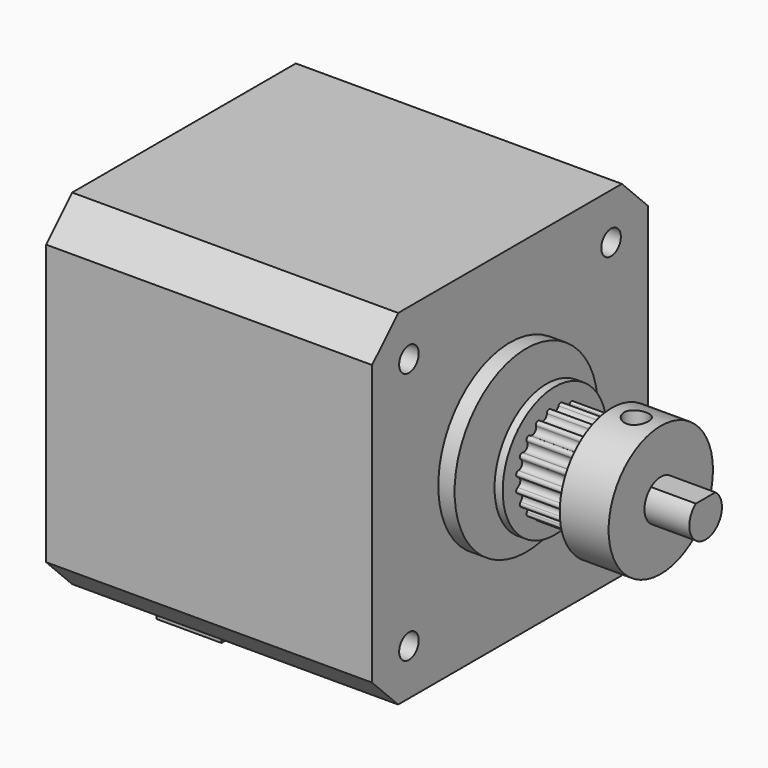
from build123d import *

# Parameters (mm, degrees)
F0_R           = 1.5
F0_R_2         = 11
F1_DEPTH       = 40
F2_DEPTH       = 24
F3_DEPTH       = 4
F4_DEPTH       = 2
F5_DEPTH       = 4.5
F6_W           = 16
F6_H           = 4
F6_H_2         = 2.5
F7_DEPTH       = 11
F8_DEPTH       = 3
F10_R          = 8
F10_R_2        = 2.5
F11_DEPTH      = 4.5
F11_DEPTH_BACK = 9.5
F12_R          = 8
F13_DEPTH      = 3.5
F14_R          = 1.5
F15_DEPTH      = 25


with BuildPart() as f1:
    # F0 (on Right) → F1 (new body)
    with BuildSketch(Plane.YZ):
        Polygon((-17.15, 21.15), (-19.15, 19.15), (-21.15, 17.15), (-21.15, 0), (-21.15, -17.15), (-19.15, -19.15), (-17.15, -21.15), (0, -21.15), (17.15, -21.15), (19.15, -19.15), (21.15, -17.15), (21.15, 0), (21.15, 17.15), (19.15, 19.15), (17.15, 21.15), (0, 21.15), align=None)
        with Locations((-15.5, -15.5)):
            Circle(F0_R, mode=Mode.SUBTRACT)
        with Locations((15.5, -15.5)):
            Circle(F0_R, mode=Mode.SUBTRACT)
        with Locations((-15.5, 15.5)):
            Circle(F0_R, mode=Mode.SUBTRACT)
        Circle(F0_R_2, mode=Mode.SUBTRACT)
        with Locations((15.5, 15.5)):
            Circle(F0_R, mode=Mode.SUBTRACT)
        Circle(F0_R_2)
        with BuildLine():
            ThreePointArc((1.5, 2), (2.2360679775, 1.1180339887), (2.5, 0))
            ThreePointArc((2.5, 0), (-1.1180339887, -2.2360679775), (-1.5, 2))
            ThreePointArc((-1.5, 2), (0, 2.5), (1.5, 2))
        make_face(mode=Mode.SUBTRACT)
        with BuildLine():
            ThreePointArc((-1.5, 2), (-1.1180339887, -2.2360679775), (2.5, 0))
            ThreePointArc((2.5, 0), (2.2360679775, 1.1180339887), (1.5, 2))
            Line((1.5, 2), (-1.5, 2))
        make_face()
        with Locations((15.5, 15.5)):
            Circle(F0_R)
        with Locations((15.5, -15.5)):
            Circle(F0_R)
        with Locations((-15.5, -15.5)):
            Circle(F0_R)
        with Locations((-15.5, 15.5)):
            Circle(F0_R)
        with BuildLine():
            Line((-1.5, 2), (1.5, 2))
            ThreePointArc((1.5, 2), (0, 2.5), (-1.5, 2))
        make_face()
    extrude(amount=-F1_DEPTH)

    # F0 (on Right) → F2 (join)
    with BuildSketch(Plane.YZ):
        with BuildLine():
            ThreePointArc((-1.5, 2), (-1.1180339887, -2.2360679775), (2.5, 0))
            ThreePointArc((2.5, 0), (2.2360679775, 1.1180339887), (1.5, 2))
            Line((1.5, 2), (-1.5, 2))
        make_face()
    extrude(amount=F2_DEPTH)

    # F0 (on Right) → F3 (join)
    with BuildSketch(Plane.YZ):
        with BuildLine():
            Line((-1.5, 2), (1.5, 2))
            ThreePointArc((1.5, 2), (0, 2.5), (-1.5, 2))
        make_face()
    extrude(amount=F3_DEPTH)

    # F0 (on Right) → F4 (join)
    with BuildSketch(Plane.YZ):
        Circle(F0_R_2)
        with BuildLine():
            ThreePointArc((1.5, 2), (2.2360679775, 1.1180339887), (2.5, 0))
            ThreePointArc((2.5, 0), (-1.1180339887, -2.2360679775), (-1.5, 2))
            ThreePointArc((-1.5, 2), (0, 2.5), (1.5, 2))
        make_face(mode=Mode.SUBTRACT)
    extrude(amount=F4_DEPTH)

    # F0 (on Right) → F5 (cut)
    with BuildSketch(Plane.YZ):
        with Locations((-15.5, 15.5)):
            Circle(F0_R)
        with Locations((15.5, 15.5)):
            Circle(F0_R)
        with Locations((15.5, -15.5)):
            Circle(F0_R)
        with Locations((-15.5, -15.5)):
            Circle(F0_R)
    extrude(amount=-F5_DEPTH, mode=Mode.SUBTRACT)

    # F6 (on face) → F7 (join)
    with BuildSketch(Plane(origin=(-40, 0, 0), x_dir=(0, -1, 0), z_dir=(-1, 0, 0))):
        with Locations((0, -23.15)):
            Rectangle(F6_W, F6_H)
        with Locations((0, -26.4)):
            Rectangle(F6_W, F6_H_2)
    extrude(amount=-F7_DEPTH)

    # F6 (on face) → F8 (cut)
    with BuildSketch(Plane(origin=(-40, 0, 0), x_dir=(0, -1, 0), z_dir=(-1, 0, 0))):
        with Locations((0, -26.4)):
            Rectangle(F6_W, F6_H_2)
    extrude(amount=-F8_DEPTH, mode=Mode.SUBTRACT)


with BuildPart() as f11:
    # F10 (on offset) → F11 (new body, two sides)
    with BuildSketch(Plane.YZ.offset(9)) as f11_sk:
        Circle(F10_R)
        Circle(F10_R_2, mode=Mode.SUBTRACT)
    extrude(amount=-F11_DEPTH)
    extrude(f11_sk.sketch, amount=F11_DEPTH_BACK)

    # F12 (on offset) → F13 (cut, symmetric)
    with BuildSketch(Plane.YZ.offset(9)):
        Circle(F12_R)
        with BuildLine():
            ThreePointArc((-0.9386067902, 5.9261300436), (-0.7122616293, 5.8822689812), (-0.5668572491, 5.7033458387))
            ThreePointArc((-0.5668572491, 5.7033458387), (0, 5.3), (0.5668572491, 5.7033458387))
            ThreePointArc((0.5668572491, 5.7033458387), (0.7122616293, 5.8822689812), (0.9386067902, 5.9261300436))
            ThreePointArc((0.9386067902, 5.9261300436), (1.1403200169, 5.8144711931), (1.2233175084, 5.599372748))
            ThreePointArc((1.2233175084, 5.599372748), (1.6377900702, 5.0405995364), (2.3015440695, 5.2490357013))
            ThreePointArc((2.3015440695, 5.2490357013), (2.4951221445, 5.3742692973), (2.7239429984, 5.3460391451))
            ThreePointArc((2.7239429984, 5.3460391451), (2.8812791947, 5.1775124527), (2.8937454248, 4.9472940395))
            ThreePointArc((2.8937454248, 4.9472940395), (3.1152618372, 4.2877900702), (3.8109397206, 4.2809133772))
            ThreePointArc((3.8109397206, 4.2809133772), (4.0337427197, 4.3401986898), (4.2426406871, 4.2426406871))
            ThreePointArc((4.2426406871, 4.2426406871), (4.3401986898, 4.0337427197), (4.2809133772, 3.8109397206))
            ThreePointArc((4.2809133772, 3.8109397206), (4.2877900702, 3.1152618372), (4.9472940395, 2.8937454248))
            ThreePointArc((4.9472940395, 2.8937454248), (5.1775124527, 2.8812791947), (5.3460391451, 2.7239429984))
            ThreePointArc((5.3460391451, 2.7239429984), (5.3742692973, 2.4951221445), (5.2490357013, 2.3015440695))
            ThreePointArc((5.2490357013, 2.3015440695), (5.0405995364, 1.6377900702), (5.599372748, 1.2233175084))
            ThreePointArc((5.599372748, 1.2233175084), (5.8144711931, 1.1403200169), (5.9261300436, 0.9386067902))
            ThreePointArc((5.9261300436, 0.9386067902), (5.8822689812, 0.7122616293), (5.7033458387, 0.5668572491))
            ThreePointArc((5.7033458387, 0.5668572491), (5.3, 0), (5.7033458387, -0.5668572491))
            ThreePointArc((5.7033458387, -0.5668572491), (5.8822689812, -0.7122616293), (5.9261300436, -0.9386067902))
            ThreePointArc((5.9261300436, -0.9386067902), (5.8144711931, -1.1403200169), (5.599372748, -1.2233175084))
            ThreePointArc((5.599372748, -1.2233175084), (5.0405995364, -1.6377900702), (5.2490357013, -2.3015440695))
            ThreePointArc((5.2490357013, -2.3015440695), (5.3742692973, -2.4951221445), (5.3460391451, -2.7239429984))
            ThreePointArc((5.3460391451, -2.7239429984), (5.1775124527, -2.8812791947), (4.9472940395, -2.8937454248))
            ThreePointArc((4.9472940395, -2.8937454248), (4.2877900702, -3.1152618372), (4.2809133772, -3.8109397206))
            ThreePointArc((4.2809133772, -3.8109397206), (4.3401986898, -4.0337427197), (4.2426406871, -4.2426406871))
            ThreePointArc((4.2426406871, -4.2426406871), (4.0337427197, -4.3401986898), (3.8109397206, -4.2809133772))
            ThreePointArc((3.8109397206, -4.2809133772), (3.1152618372, -4.2877900702), (2.8937454248, -4.9472940395))
            ThreePointArc((2.8937454248, -4.9472940395), (2.8812791947, -5.1775124527), (2.7239429984, -5.3460391451))
            ThreePointArc((2.7239429984, -5.3460391451), (2.4951221445, -5.3742692973), (2.3015440695, -5.2490357013))
            ThreePointArc((2.3015440695, -5.2490357013), (1.6377900702, -5.0405995364), (1.2233175084, -5.599372748))
            ThreePointArc((1.2233175084, -5.599372748), (1.1403200169, -5.8144711931), (0.9386067902, -5.9261300436))
            ThreePointArc((0.9386067902, -5.9261300436), (0.7122616293, -5.8822689812), (0.5668572491, -5.7033458387))
            ThreePointArc((0.5668572491, -5.7033458387), (0, -5.3), (-0.5668572491, -5.7033458387))
            ThreePointArc((-0.5668572491, -5.7033458387), (-0.7122616293, -5.8822689812), (-0.9386067902, -5.9261300436))
            ThreePointArc((-0.9386067902, -5.9261300436), (-1.1403200169, -5.8144711931), (-1.2233175084, -5.599372748))
            ThreePointArc((-1.2233175084, -5.599372748), (-1.6377900702, -5.0405995364), (-2.3015440695, -5.2490357013))
            ThreePointArc((-2.3015440695, -5.2490357013), (-2.4951221445, -5.3742692973), (-2.7239429984, -5.3460391451))
            ThreePointArc((-2.7239429984, -5.3460391451), (-2.8812791947, -5.1775124527), (-2.8937454248, -4.9472940395))
            ThreePointArc((-2.8937454248, -4.9472940395), (-3.1152618372, -4.2877900702), (-3.8109397206, -4.2809133772))
            ThreePointArc((-3.8109397206, -4.2809133772), (-4.0337427197, -4.3401986898), (-4.2426406871, -4.2426406871))
            ThreePointArc((-4.2426406871, -4.2426406871), (-4.3401986898, -4.0337427197), (-4.2809133772, -3.8109397206))
            ThreePointArc((-4.2809133772, -3.8109397206), (-4.2877900702, -3.1152618372), (-4.9472940395, -2.8937454248))
            ThreePointArc((-4.9472940395, -2.8937454248), (-5.1775124527, -2.8812791947), (-5.3460391451, -2.7239429984))
            ThreePointArc((-5.3460391451, -2.7239429984), (-5.3742692973, -2.4951221445), (-5.2490357013, -2.3015440695))
            ThreePointArc((-5.2490357013, -2.3015440695), (-5.0405995364, -1.6377900702), (-5.599372748, -1.2233175084))
            ThreePointArc((-5.599372748, -1.2233175084), (-5.8144711931, -1.1403200169), (-5.9261300436, -0.9386067902))
            ThreePointArc((-5.9261300436, -0.9386067902), (-5.8822689812, -0.7122616293), (-5.7033458387, -0.5668572491))
            ThreePointArc((-5.7033458387, -0.5668572491), (-5.3, 0), (-5.7033458387, 0.5668572491))
            ThreePointArc((-5.7033458387, 0.5668572491), (-5.8822689812, 0.7122616293), (-5.9261300436, 0.9386067902))
            ThreePointArc((-5.9261300436, 0.9386067902), (-5.8144711931, 1.1403200169), (-5.599372748, 1.2233175084))
            ThreePointArc((-5.599372748, 1.2233175084), (-5.0405995364, 1.6377900702), (-5.2490357013, 2.3015440695))
            ThreePointArc((-5.2490357013, 2.3015440695), (-5.3742692973, 2.4951221445), (-5.3460391451, 2.7239429984))
            ThreePointArc((-5.3460391451, 2.7239429984), (-5.1775124527, 2.8812791947), (-4.9472940395, 2.8937454248))
            ThreePointArc((-4.9472940395, 2.8937454248), (-4.2877900702, 3.1152618372), (-4.2809133772, 3.8109397206))
            ThreePointArc((-4.2809133772, 3.8109397206), (-4.3401986898, 4.0337427197), (-4.2426406871, 4.2426406871))
            ThreePointArc((-4.2426406871, 4.2426406871), (-4.0337427197, 4.3401986898), (-3.8109397206, 4.2809133772))
            ThreePointArc((-3.8109397206, 4.2809133772), (-3.1152618372, 4.2877900702), (-2.8937454248, 4.9472940395))
            ThreePointArc((-2.8937454248, 4.9472940395), (-2.8812791947, 5.1775124527), (-2.7239429984, 5.3460391451))
            ThreePointArc((-2.7239429984, 5.3460391451), (-2.4951221445, 5.3742692973), (-2.3015440695, 5.2490357013))
            ThreePointArc((-2.3015440695, 5.2490357013), (-1.6377900702, 5.0405995364), (-1.2233175084, 5.599372748))
            ThreePointArc((-1.2233175084, 5.599372748), (-1.1403200169, 5.8144711931), (-0.9386067902, 5.9261300436))
        make_face(mode=Mode.SUBTRACT)
    extrude(amount=F13_DEPTH, both=True, mode=Mode.SUBTRACT)

    # F14 (on Top) → F15 (cut)
    with BuildSketch(Plane.XY):
        with Locations((15.5, 0)):
            Circle(F14_R)
    extrude(amount=F15_DEPTH, mode=Mode.SUBTRACT)


solid = Compound([f1.part, f11.part])
